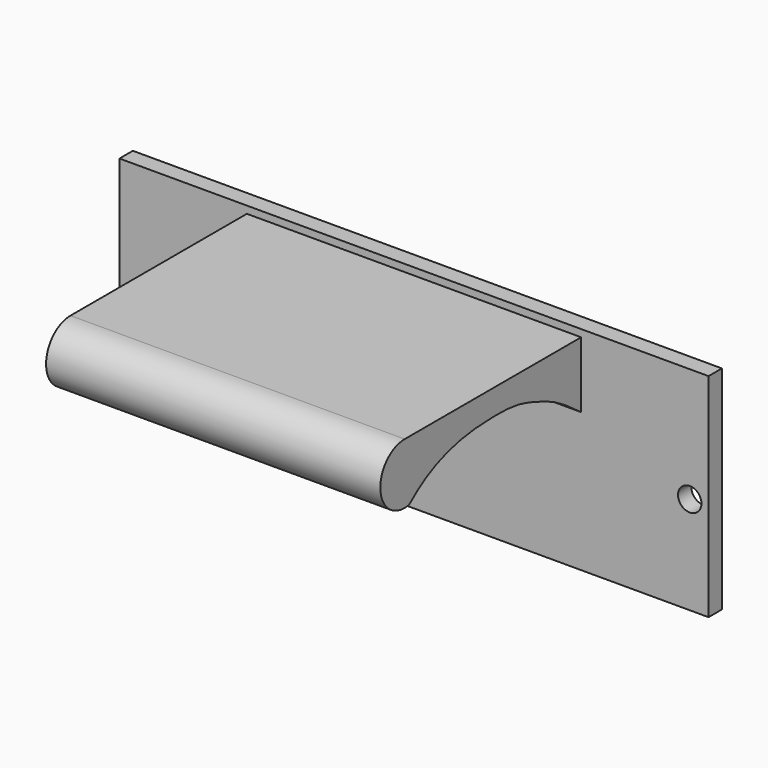
from build123d import *

# Parameters (mm, degrees)
PAD002_DEPTH      = 20
CYLINDER017_R     = 1.4
CYLINDER017_DEPTH = 10
ARRAY014_X_COUNT  = 2
ARRAY014_X_PITCH  = 66
BOX031_W          = 70.5
BOX031_H          = 2
BOX031_DEPTH      = 25.4


with BuildPart() as body003:
    # Sketch003 → Pad002 (new body, symmetric)
    with BuildSketch(Plane.YZ):
        with BuildLine():
            Line((78.762321, 19.834602), (78.762321, 11.356619))
            add(Edge.make_bspline(
                [(78.762321, 11.356619), (74.77858, 14.475335), (71.96254, 15.481066), (69.448204, 16.486797), (65.425285, 17.090239), (56.273132, 16.18508), (52.278152, 12.648025)],
                knots=[0, 0, 0, 0, 0.25, 0.5, 0.75, 1, 1, 1, 1], degree=3))
            ThreePointArc((52.278152, 12.648025), (47.975835, 15.871458), (51.608182, 19.834602))
            Line((51.608182, 19.834602), (78.762321, 19.834602))
        make_face()
    extrude(amount=PAD002_DEPTH, both=True)


with BuildPart() as battery_cover_screw_hole_array:
    # Cylinder017 → Cylinder017 (new body)
    with BuildSketch(Plane(origin=(-33, 86, 7), x_dir=(1, 0, 0), z_dir=(0, -1, 0))):
        Circle(CYLINDER017_R)
    extrude(amount=CYLINDER017_DEPTH)

    # Array014 X: battery cover screw hole array ×2


with BuildPart() as battery_cover_screw_hole_array_1:
    add(battery_cover_screw_hole_array.part)
    with Locations(*[(i * ARRAY014_X_PITCH, 0, 0) for i in range(1, ARRAY014_X_COUNT)]):
        add(battery_cover_screw_hole_array.part)


with BuildPart() as battery_cover_plate_fusion:
    # Box031 → Box031 (new body)
    with BuildSketch(Plane(origin=(-35.25, 78, -4.7), x_dir=(1, 0, 0), z_dir=(0, 0, 1))):
        with Locations((35.25, 1)):
            Rectangle(BOX031_W, BOX031_H)
    extrude(amount=BOX031_DEPTH)

    # Cut002003008: cut battery cover screw hole array
    add(battery_cover_screw_hole_array_1.part, mode=Mode.SUBTRACT)

    # Fusion005004008: union Body003
    add(body003.part)


solid = battery_cover_plate_fusion.part
